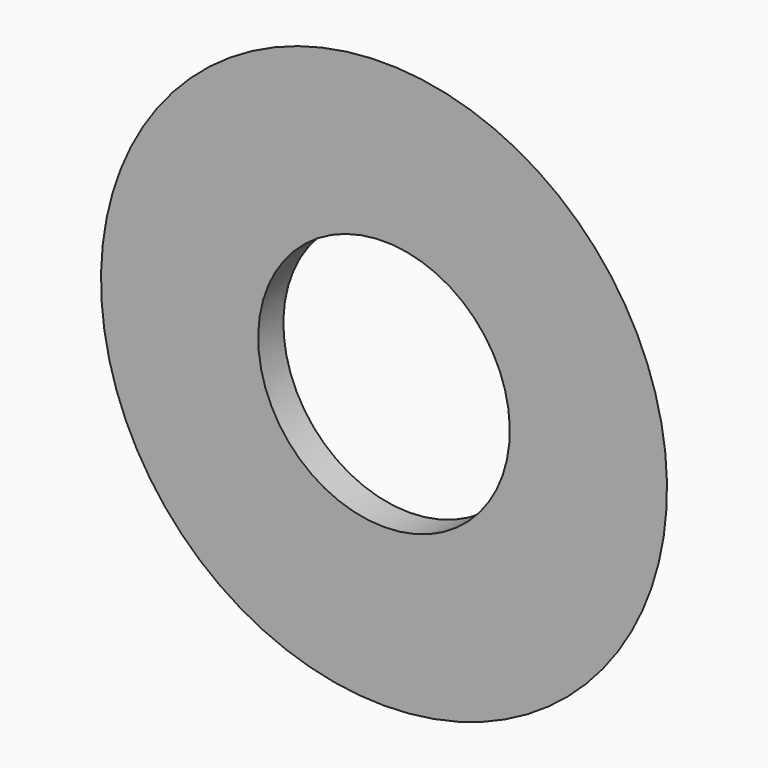
from build123d import *


with BuildPart() as f1:
    # F0 (on Right) → F1 (revolve)
    with BuildSketch(Plane.YZ):
        Polygon((5, -40), (-5, -40), (-5, -90), (5, -65.249131), align=None)
    revolve(axis=Axis((0, 5.912163, 0), (0, 1, 0)))


solid = f1.part
